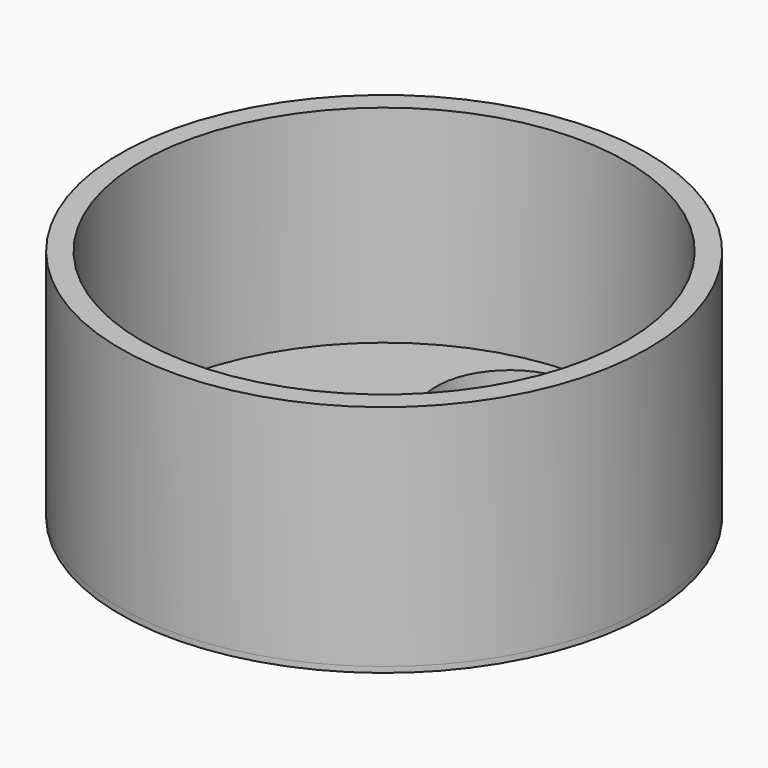
from build123d import *

# Parameters (mm, degrees)
F2_R     = 18.5
F2_R_2   = 17
F2_R_3   = 5.15
F3_DEPTH = 0.4
F4_DEPTH = 1.5
F5_DEPTH = 16


with BuildPart() as f3:
    # F2 (on Top) → F3 (new body)
    with BuildSketch(Plane.XY):
        Circle(F2_R)
        Circle(F2_R_2, mode=Mode.SUBTRACT)
        Circle(F2_R_2)
        with Locations((0, -11)):
            Circle(F2_R_3, mode=Mode.SUBTRACT)
        Circle(F2_R_3, mode=Mode.SUBTRACT)
        with Locations((0, 11)):
            Circle(F2_R_3, mode=Mode.SUBTRACT)
        Circle(F2_R_3)
        with Locations((0, -11)):
            Circle(F2_R_3)
    extrude(amount=-F3_DEPTH)

    # F2 (on Top) → F4 (join)
    with BuildSketch(Plane.XY):
        Circle(F2_R_2)
        with Locations((0, -11)):
            Circle(F2_R_3, mode=Mode.SUBTRACT)
        Circle(F2_R_3, mode=Mode.SUBTRACT)
        with Locations((0, 11)):
            Circle(F2_R_3, mode=Mode.SUBTRACT)
    extrude(amount=F4_DEPTH)

    # F2 (on Top) → F5 (join)
    with BuildSketch(Plane.XY):
        Circle(F2_R)
        Circle(F2_R_2, mode=Mode.SUBTRACT)
    extrude(amount=F5_DEPTH)


solid = f3.part
